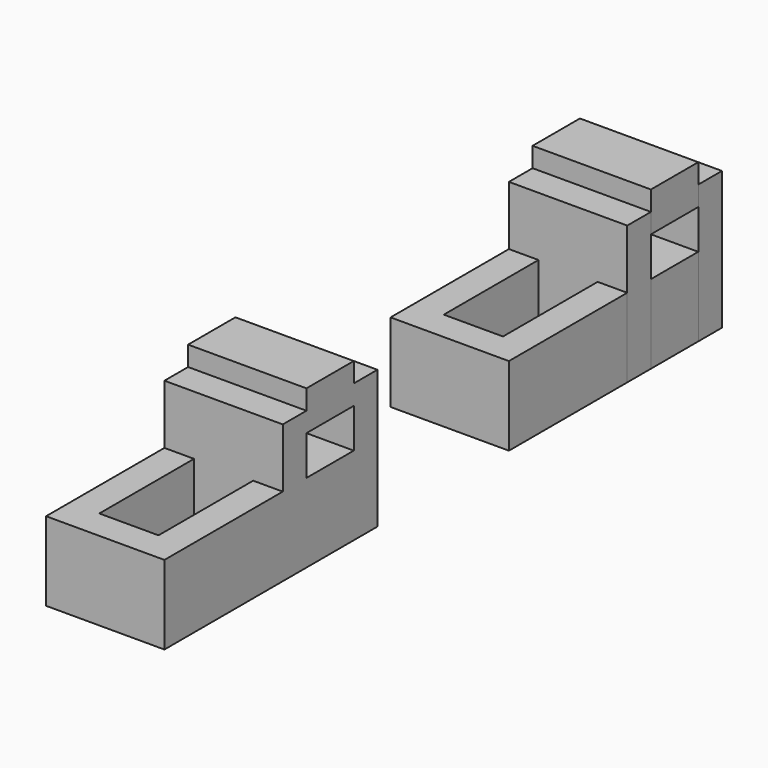
from build123d import *

# Parameters (mm, degrees)
F0_W      = 609.6
F0_H      = 1219.2
F1_DEPTH  = 304.8
F2_DEPTH  = 812.8
F0_W_2    = 1219.2
F0_H_2    = 304.8
F3_DEPTH  = 1422.4
F0_H_3    = 609.6
F4_DEPTH  = 1625.6
F5_W      = 609.6
F5_H      = 406.4
F6_DEPTH  = 1219.201
F7_W      = 609.6
F7_H      = 406.4
F8_DEPTH  = 1219.2
F9_W      = 609.6
F9_H      = 1219.2
F10_DEPTH = 609.6


with BuildPart() as f1:
    # F0 (on Top) → F1 (new body)
    with BuildSketch(Plane.XY):
        with Locations((513.527751, 856.304496)):
            Rectangle(F0_W, F0_H)
    extrude(amount=F1_DEPTH)

    # F0 (on Top) → F2 (join)
    with BuildSketch(Plane.XY):
        Polygon((-96.072249, 1465.904496), (-96.072249, -58.095504), (1123.127751, -58.095504), (1123.127751, 1465.904496), (818.327751, 1465.904496), (818.327751, 246.704496), (208.727751, 246.704496), (208.727751, 1465.904496), align=None)
    extrude(amount=F2_DEPTH)


with BuildPart() as f3:
    # F0 (on Top) → F3 (new body)
    with BuildSketch(Plane.XY):
        Polygon((-96.072249, 1770.704496), (-96.072249, 1465.904496), (208.727751, 1465.904496), (818.327751, 1465.904496), (1123.127751, 1465.904496), (1123.127751, 1770.704496), align=None)
        with Locations((513.527751, 2532.704496)):
            Rectangle(F0_W_2, F0_H_2)
    extrude(amount=F3_DEPTH)


with BuildPart() as f4:
    # F0 (on Top) → F4 (new body)
    with BuildSketch(Plane.XY):
        with Locations((513.527751, 2075.504496)):
            Rectangle(F0_W_2, F0_H_3)
    extrude(amount=F4_DEPTH)

    # F5 (on face) → F6 (cut, through all)
    with BuildSketch(Plane.YZ.offset(1123.127751)):
        with Locations((2075.504496, 1016)):
            Rectangle(F5_W, F5_H)
    extrude(amount=-F6_DEPTH, mode=Mode.SUBTRACT)


with BuildPart() as f8:
    # F7 (on face) → F8 (new body)
    with BuildSketch(Plane.YZ.offset(1123.127751)):
        Polygon((-4494.243622, 812.8), (-4494.243622, 0), (-1751.043622, 0), (-1751.043622, 1422.4), (-2055.843622, 1422.4), (-2055.843622, 1625.6), (-2665.443622, 1625.6), (-2665.443622, 1422.4), (-2970.243622, 1422.4), (-2970.243622, 812.8), align=None)
        with Locations((-2360.643622, 1016)):
            Rectangle(F7_W, F7_H, mode=Mode.SUBTRACT)
    extrude(amount=-F8_DEPTH)

    # F9 (on face) → F10 (cut)
    with BuildSketch(Plane.XY.offset(812.8)):
        with Locations((513.527751, -3579.843622)):
            Rectangle(F9_W, F9_H)
    extrude(amount=-F10_DEPTH, mode=Mode.SUBTRACT)


solid = Compound([f1.part, f3.part, f4.part, f8.part])
